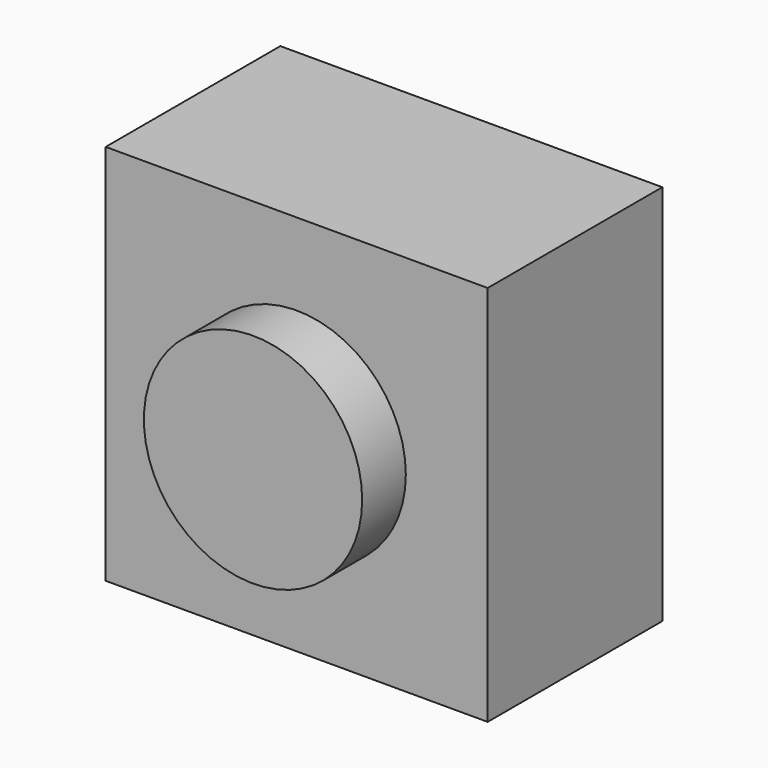
from build123d import *

# Parameters (mm, degrees)
F0_W     = 5.55625
F0_H     = 5.55625
F0_R     = 1.5875
F1_DEPTH = 3.175
F2_R     = 1.5875
F3_DEPTH = 0.79375


with BuildPart() as f1:
    # F0 (on Front) → F1 (new body)
    with BuildSketch(Plane.XZ):
        Rectangle(F0_W, F0_H)
        Circle(F0_R, mode=Mode.SUBTRACT)
        Circle(F0_R)
    extrude(amount=F1_DEPTH)

    # F2 (on face) → F3 (join)
    with BuildSketch(Plane.XZ.offset(3.175)):
        Circle(F2_R)
    extrude(amount=F3_DEPTH)


solid = f1.part
